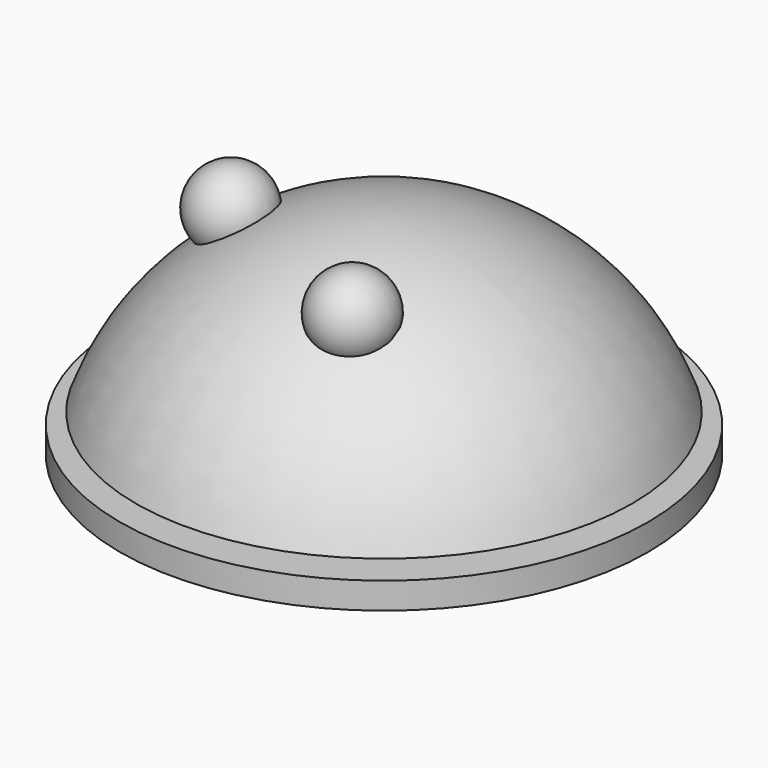
from build123d import *

# Parameters (mm, degrees)
CYLINDER_R     = 10
CYLINDER_DEPTH = 1


with BuildPart() as cilindro:
    # Cylinder → Cylinder (new body)
    with BuildSketch(Plane.XY):
        Circle(CYLINDER_R)
    extrude(amount=CYLINDER_DEPTH)


with BuildPart() as esfera:
    # Sphere → Sphere (revolve)
    with BuildSketch(Plane(origin=(0, 0, -2), x_dir=(1, 0, 0), z_dir=(0, -1, 0))):
        with BuildLine():
            ThreePointArc((9.396926, 3.420201), (5.735764, 8.19152), (0, 10))
            Line((0, 10), (0, 3.420201))
            Line((0, 3.420201), (9.396926, 3.420201))
        make_face()
    revolve(axis=Axis((0, 0, -2), (0, 0, 1)))


with BuildPart() as esfera001:
    # Sphere001 → Sphere001 (revolve)
    with BuildSketch(Plane(origin=(2, -4, 7), x_dir=(1, 0, 0), z_dir=(0, -1, 0))):
        with BuildLine():
            ThreePointArc((0, -1.5), (1.5, 0), (0, 1.5))
            Line((0, 1.5), (0, -1.5))
        make_face()
    revolve(axis=Axis((2, -4, 7), (0, 0, 1)))


with BuildPart() as esfera002:
    # Sphere002 → Sphere002 (revolve)
    with BuildSketch(Plane(origin=(-5, -1, 7), x_dir=(1, 0, 0), z_dir=(0, -1, 0))):
        with BuildLine():
            ThreePointArc((0, -1.5), (1.5, 0), (0, 1.5))
            Line((0, 1.5), (0, -1.5))
        make_face()
    revolve(axis=Axis((-5, -1, 7), (0, 0, 1)))


solid = Compound([cilindro.part, esfera.part, esfera001.part, esfera002.part])
